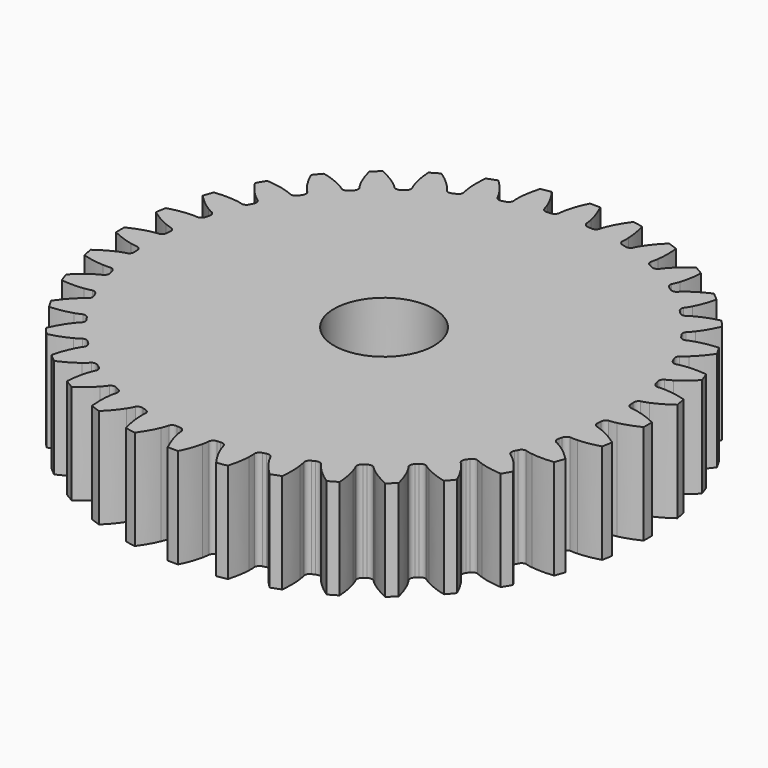
from build123d import *

# Parameters (mm, degrees)
CYLINDER_R     = 5
CYLINDER_DEPTH = 10
PAD_DEPTH      = 10


with BuildPart() as cylinder:
    # Cylinder → Cylinder (new body)
    with BuildSketch(Plane.XY):
        Circle(CYLINDER_R)
    extrude(amount=CYLINDER_DEPTH)


with BuildPart() as cut:
    # InvoluteGear → Pad (new body)
    with BuildSketch(Plane.XY):
        with BuildLine():
            add(Edge.make_bspline(
                [(23.589992, -1.374475), (23.724007, -1.3688), (23.969036, -1.347122), (24.321857, -1.271442)],
                knots=[0, 0, 0, 0, 1, 1, 1, 1], degree=3))
            add(Edge.make_bspline(
                [(24.321857, -1.271442), (24.822605, -1.163578), (25.529523, -0.948731), (26.405996, -0.522708)],
                knots=[0, 0, 0, 0, 1, 1, 1, 1], degree=3))
            ThreePointArc((26.405996, -0.522708), (26.41117, 0), (26.405996, 0.522708))
            add(Edge.make_bspline(
                [(26.405996, 0.522708), (25.529523, 0.948731), (24.822605, 1.163578), (24.321857, 1.271442)],
                knots=[0, 0, 0, 0, 1, 1, 1, 1], degree=3))
            add(Edge.make_bspline(
                [(24.321857, 1.271442), (23.969036, 1.347122), (23.724007, 1.3688), (23.590295, 1.374452)],
                knots=[0, 0, 0, 0, 1, 1, 1, 1], degree=3))
            ThreePointArc((23.590295, 1.374452), (23.318537, 1.555545), (23.207861, 1.862788))
            ThreePointArc((23.207861, 1.862788), (23.193903, 2.029204), (23.178751, 2.195515))
            ThreePointArc((23.178751, 2.195515), (23.234296, 2.517202), (23.470282, 2.742766))
            add(Edge.make_bspline(
                [(23.470282, 2.742766), (23.601275, 2.771626), (23.838817, 2.835523), (24.173137, 2.97132)],
                knots=[0, 0, 0, 0, 1, 1, 1, 1], degree=3))
            add(Edge.make_bspline(
                [(24.173137, 2.97132), (24.647547, 3.1645), (25.306418, 3.498838), (26.095597, 4.070586)],
                knots=[0, 0, 0, 0, 1, 1, 1, 1], degree=3))
            ThreePointArc((26.095597, 4.070586), (26.009925, 4.586251), (25.914063, 5.10012))
            add(Edge.make_bspline(
                [(25.914063, 5.10012), (24.976927, 5.367473), (24.243441, 5.456301), (23.73157, 5.475572)],
                knots=[0, 0, 0, 0, 1, 1, 1, 1], degree=3))
            add(Edge.make_bspline(
                [(23.73157, 5.475572), (23.370967, 5.488835), (23.125896, 5.467635), (22.993234, 5.449982)],
                knots=[0, 0, 0, 0, 1, 1, 1, 1], degree=3))
            ThreePointArc((22.993234, 5.449982), (22.694159, 5.581135), (22.531812, 5.864491))
            ThreePointArc((22.531812, 5.864491), (22.489168, 6.025954), (22.445367, 6.187108))
            ThreePointArc((22.445367, 6.187108), (22.444208, 6.513554), (22.637439, 6.776669))
            add(Edge.make_bspline(
                [(22.637439, 6.776669), (22.761431, 6.827837), (22.984269, 6.932013), (23.289929, 7.123801)],
                knots=[0, 0, 0, 0, 1, 1, 1, 1], degree=3))
            add(Edge.make_bspline(
                [(23.289929, 7.123801), (23.723586, 7.396425), (24.31439, 7.840096), (24.992297, 8.540198)],
                knots=[0, 0, 0, 0, 1, 1, 1, 1], degree=3))
            ThreePointArc((24.992297, 8.540198), (24.818381, 9.033152), (24.634743, 9.522567))
            add(Edge.make_bspline(
                [(24.634743, 9.522567), (23.66542, 9.623127), (22.927652, 9.583236), (22.420211, 9.51333)],
                knots=[0, 0, 0, 0, 1, 1, 1, 1], degree=3))
            add(Edge.make_bspline(
                [(22.420211, 9.51333), (22.062783, 9.463773), (21.825117, 9.400339), (21.697536, 9.359918)],
                knots=[0, 0, 0, 0, 1, 1, 1, 1], degree=3))
            ThreePointArc((21.697536, 9.359918), (21.38023, 9.437144), (21.171145, 9.688004))
            ThreePointArc((21.171145, 9.688004), (21.101111, 9.83961), (21.029991, 9.990709))
            ThreePointArc((21.029991, 9.990709), (20.972163, 10.311994), (21.11677, 10.604666))
            add(Edge.make_bspline(
                [(21.11677, 10.604666), (21.229992, 10.676588), (21.431355, 10.817876), (21.699067, 11.059828)],
                knots=[0, 0, 0, 0, 1, 1, 1, 1], degree=3))
            add(Edge.make_bspline(
                [(21.699067, 11.059828), (22.078795, 11.403615), (22.583581, 11.943137), (23.129618, 12.75032)],
                knots=[0, 0, 0, 0, 1, 1, 1, 1], degree=3))
            ThreePointArc((23.129618, 12.75032), (22.872744, 13.205585), (22.60691, 13.655677))
            add(Edge.make_bspline(
                [(22.60691, 13.655677), (21.63485, 13.586387), (20.915218, 13.41899), (20.427625, 13.26203)],
                knots=[0, 0, 0, 0, 1, 1, 1, 1], degree=3))
            add(Edge.make_bspline(
                [(20.427625, 13.26203), (20.084233, 13.15116), (19.861192, 13.047419), (19.742569, 12.985457)],
                knots=[0, 0, 0, 0, 1, 1, 1, 1], degree=3))
            ThreePointArc((19.742569, 12.985457), (19.416673, 13.006411), (19.167204, 13.217152))
            ThreePointArc((19.167204, 13.217152), (19.071907, 13.354293), (18.97563, 13.490748))
            ThreePointArc((18.97563, 13.490748), (18.86289, 13.79711), (18.954477, 14.110446))
            add(Edge.make_bspline(
                [(18.954477, 14.110446), (19.053491, 14.200936), (19.22726, 14.375044), (19.448891, 14.659808)],
                knots=[0, 0, 0, 0, 1, 1, 1, 1], degree=3))
            add(Edge.make_bspline(
                [(19.448891, 14.659808), (19.763152, 15.064311), (20.166582, 15.683291), (20.564157, 16.57303)],
                knots=[0, 0, 0, 0, 1, 1, 1, 1], degree=3))
            ThreePointArc((20.564157, 16.57303), (20.23213, 16.976773), (19.892177, 17.373865))
            add(Edge.make_bspline(
                [(19.892177, 17.373865), (18.946917, 17.136831), (18.267285, 16.847015), (17.814357, 16.607769)],
                knots=[0, 0, 0, 0, 1, 1, 1, 1], degree=3))
            add(Edge.make_bspline(
                [(17.814357, 16.607769), (17.495433, 16.438954), (17.293796, 16.298059), (17.187734, 16.21644)],
                knots=[0, 0, 0, 0, 1, 1, 1, 1], degree=3))
            ThreePointArc((17.187734, 16.21644), (16.863151, 16.180484), (16.580876, 16.344704))
            ThreePointArc((16.580876, 16.344704), (16.463214, 16.463214), (16.344704, 16.580876))
            ThreePointArc((16.344704, 16.580876), (16.180477, 16.863007), (16.216263, 17.187487))
            add(Edge.make_bspline(
                [(16.216263, 17.187487), (16.298059, 17.293796), (16.438954, 17.495433), (16.607769, 17.814357)],
                knots=[0, 0, 0, 0, 1, 1, 1, 1], degree=3))
            add(Edge.make_bspline(
                [(16.607769, 17.814357), (16.847015, 18.267285), (17.136831, 18.946917), (17.373865, 19.892177)],
                knots=[0, 0, 0, 0, 1, 1, 1, 1], degree=3))
            ThreePointArc((17.373865, 19.892177), (16.976773, 20.23213), (16.57303, 20.564157))
            add(Edge.make_bspline(
                [(16.57303, 20.564157), (15.683291, 20.166582), (15.064311, 19.763152), (14.659808, 19.448891)],
                knots=[0, 0, 0, 0, 1, 1, 1, 1], degree=3))
            add(Edge.make_bspline(
                [(14.659808, 19.448891), (14.375044, 19.22726), (14.200936, 19.053491), (14.110658, 18.954694)],
                knots=[0, 0, 0, 0, 1, 1, 1, 1], degree=3))
            ThreePointArc((14.110658, 18.954694), (13.79725, 18.862921), (13.490748, 18.97563))
            ThreePointArc((13.490748, 18.97563), (13.354293, 19.071907), (13.217152, 19.167204))
            ThreePointArc((13.217152, 19.167204), (13.006429, 19.41653), (12.985326, 19.742295))
            add(Edge.make_bspline(
                [(12.985326, 19.742295), (13.047419, 19.861192), (13.15116, 20.084233), (13.26203, 20.427625)],
                knots=[0, 0, 0, 0, 1, 1, 1, 1], degree=3))
            add(Edge.make_bspline(
                [(13.26203, 20.427625), (13.41899, 20.915218), (13.586387, 21.63485), (13.655677, 22.60691)],
                knots=[0, 0, 0, 0, 1, 1, 1, 1], degree=3))
            ThreePointArc((13.655677, 22.60691), (13.205585, 22.872744), (12.75032, 23.129618))
            add(Edge.make_bspline(
                [(12.75032, 23.129618), (11.943137, 22.583581), (11.403615, 22.078795), (11.059828, 21.699067)],
                knots=[0, 0, 0, 0, 1, 1, 1, 1], degree=3))
            add(Edge.make_bspline(
                [(11.059828, 21.699067), (10.817876, 21.431355), (10.676588, 21.229992), (10.604837, 21.11702)],
                knots=[0, 0, 0, 0, 1, 1, 1, 1], degree=3))
            ThreePointArc((10.604837, 21.11702), (10.312127, 20.972218), (9.990709, 21.029991))
            ThreePointArc((9.990709, 21.029991), (9.83961, 21.101111), (9.688004, 21.171145))
            ThreePointArc((9.688004, 21.171145), (9.437187, 21.380092), (9.359836, 21.697243))
            add(Edge.make_bspline(
                [(9.359836, 21.697243), (9.400339, 21.825117), (9.463773, 22.062783), (9.51333, 22.420211)],
                knots=[0, 0, 0, 0, 1, 1, 1, 1], degree=3))
            add(Edge.make_bspline(
                [(9.51333, 22.420211), (9.583236, 22.927652), (9.623127, 23.66542), (9.522567, 24.634743)],
                knots=[0, 0, 0, 0, 1, 1, 1, 1], degree=3))
            ThreePointArc((9.522567, 24.634743), (9.033152, 24.818381), (8.540198, 24.992297))
            add(Edge.make_bspline(
                [(8.540198, 24.992297), (7.840096, 24.31439), (7.396425, 23.723586), (7.123801, 23.289929)],
                knots=[0, 0, 0, 0, 1, 1, 1, 1], degree=3))
            add(Edge.make_bspline(
                [(7.123801, 23.289929), (6.932013, 22.984269), (6.827837, 22.761431), (6.776794, 22.637716)],
                knots=[0, 0, 0, 0, 1, 1, 1, 1], degree=3))
            ThreePointArc((6.776794, 22.637716), (6.513675, 22.444285), (6.187108, 22.445367))
            ThreePointArc((6.187108, 22.445367), (6.025954, 22.489168), (5.864491, 22.531812))
            ThreePointArc((5.864491, 22.531812), (5.581201, 22.694031), (5.449952, 22.992932))
            add(Edge.make_bspline(
                [(5.449952, 22.992932), (5.467635, 23.125896), (5.488835, 23.370967), (5.475572, 23.73157)],
                knots=[0, 0, 0, 0, 1, 1, 1, 1], degree=3))
            add(Edge.make_bspline(
                [(5.475572, 23.73157), (5.456301, 24.243441), (5.367473, 24.976927), (5.10012, 25.914063)],
                knots=[0, 0, 0, 0, 1, 1, 1, 1], degree=3))
            ThreePointArc((5.10012, 25.914063), (4.586251, 26.009925), (4.070586, 26.095597))
            add(Edge.make_bspline(
                [(4.070586, 26.095597), (3.498838, 25.306418), (3.1645, 24.647547), (2.97132, 24.173137)],
                knots=[0, 0, 0, 0, 1, 1, 1, 1], degree=3))
            add(Edge.make_bspline(
                [(2.97132, 24.173137), (2.835523, 23.838817), (2.771626, 23.601275), (2.742841, 23.470576)],
                knots=[0, 0, 0, 0, 1, 1, 1, 1], degree=3))
            ThreePointArc((2.742841, 23.470576), (2.517308, 23.234394), (2.195515, 23.178751))
            ThreePointArc((2.195515, 23.178751), (2.029204, 23.193903), (1.862788, 23.207861))
            ThreePointArc((1.862788, 23.207861), (1.555633, 23.318423), (1.374475, 23.589992))
            add(Edge.make_bspline(
                [(1.374475, 23.589992), (1.3688, 23.724007), (1.347122, 23.969036), (1.271442, 24.321857)],
                knots=[0, 0, 0, 0, 1, 1, 1, 1], degree=3))
            add(Edge.make_bspline(
                [(1.271442, 24.321857), (1.163578, 24.822605), (0.948731, 25.529523), (0.522708, 26.405996)],
                knots=[0, 0, 0, 0, 1, 1, 1, 1], degree=3))
            ThreePointArc((0.522708, 26.405996), (0, 26.41117), (-0.522708, 26.405996))
            add(Edge.make_bspline(
                [(-0.522708, 26.405996), (-0.948731, 25.529523), (-1.163578, 24.822605), (-1.271442, 24.321857)],
                knots=[0, 0, 0, 0, 1, 1, 1, 1], degree=3))
            add(Edge.make_bspline(
                [(-1.271442, 24.321857), (-1.347122, 23.969036), (-1.3688, 23.724007), (-1.374452, 23.590295)],
                knots=[0, 0, 0, 0, 1, 1, 1, 1], degree=3))
            ThreePointArc((-1.374452, 23.590295), (-1.555545, 23.318537), (-1.862788, 23.207861))
            ThreePointArc((-1.862788, 23.207861), (-2.029204, 23.193903), (-2.195515, 23.178751))
            ThreePointArc((-2.195515, 23.178751), (-2.517202, 23.234296), (-2.742766, 23.470282))
            add(Edge.make_bspline(
                [(-2.742766, 23.470282), (-2.771626, 23.601275), (-2.835523, 23.838817), (-2.97132, 24.173137)],
                knots=[0, 0, 0, 0, 1, 1, 1, 1], degree=3))
            add(Edge.make_bspline(
                [(-2.97132, 24.173137), (-3.1645, 24.647547), (-3.498838, 25.306418), (-4.070586, 26.095597)],
                knots=[0, 0, 0, 0, 1, 1, 1, 1], degree=3))
            ThreePointArc((-4.070586, 26.095597), (-4.586251, 26.009925), (-5.10012, 25.914063))
            add(Edge.make_bspline(
                [(-5.10012, 25.914063), (-5.367473, 24.976927), (-5.456301, 24.243441), (-5.475572, 23.73157)],
                knots=[0, 0, 0, 0, 1, 1, 1, 1], degree=3))
            add(Edge.make_bspline(
                [(-5.475572, 23.73157), (-5.488835, 23.370967), (-5.467635, 23.125896), (-5.449982, 22.993234)],
                knots=[0, 0, 0, 0, 1, 1, 1, 1], degree=3))
            ThreePointArc((-5.449982, 22.993234), (-5.581135, 22.694159), (-5.864491, 22.531812))
            ThreePointArc((-5.864491, 22.531812), (-6.025954, 22.489168), (-6.187108, 22.445367))
            ThreePointArc((-6.187108, 22.445367), (-6.513554, 22.444208), (-6.776669, 22.637439))
            add(Edge.make_bspline(
                [(-6.776669, 22.637439), (-6.827837, 22.761431), (-6.932013, 22.984269), (-7.123801, 23.289929)],
                knots=[0, 0, 0, 0, 1, 1, 1, 1], degree=3))
            add(Edge.make_bspline(
                [(-7.123801, 23.289929), (-7.396425, 23.723586), (-7.840096, 24.31439), (-8.540198, 24.992297)],
                knots=[0, 0, 0, 0, 1, 1, 1, 1], degree=3))
            ThreePointArc((-8.540198, 24.992297), (-9.033152, 24.818381), (-9.522567, 24.634743))
            add(Edge.make_bspline(
                [(-9.522567, 24.634743), (-9.623127, 23.66542), (-9.583236, 22.927652), (-9.51333, 22.420211)],
                knots=[0, 0, 0, 0, 1, 1, 1, 1], degree=3))
            add(Edge.make_bspline(
                [(-9.51333, 22.420211), (-9.463773, 22.062783), (-9.400339, 21.825117), (-9.359918, 21.697536)],
                knots=[0, 0, 0, 0, 1, 1, 1, 1], degree=3))
            ThreePointArc((-9.359918, 21.697536), (-9.437144, 21.38023), (-9.688004, 21.171145))
            ThreePointArc((-9.688004, 21.171145), (-9.83961, 21.101111), (-9.990709, 21.029991))
            ThreePointArc((-9.990709, 21.029991), (-10.311994, 20.972163), (-10.604666, 21.11677))
            add(Edge.make_bspline(
                [(-10.604666, 21.11677), (-10.676588, 21.229992), (-10.817876, 21.431355), (-11.059828, 21.699067)],
                knots=[0, 0, 0, 0, 1, 1, 1, 1], degree=3))
            add(Edge.make_bspline(
                [(-11.059828, 21.699067), (-11.403615, 22.078795), (-11.943137, 22.583581), (-12.75032, 23.129618)],
                knots=[0, 0, 0, 0, 1, 1, 1, 1], degree=3))
            ThreePointArc((-12.75032, 23.129618), (-13.205585, 22.872744), (-13.655677, 22.60691))
            add(Edge.make_bspline(
                [(-13.655677, 22.60691), (-13.586387, 21.63485), (-13.41899, 20.915218), (-13.26203, 20.427625)],
                knots=[0, 0, 0, 0, 1, 1, 1, 1], degree=3))
            add(Edge.make_bspline(
                [(-13.26203, 20.427625), (-13.15116, 20.084233), (-13.047419, 19.861192), (-12.985457, 19.742569)],
                knots=[0, 0, 0, 0, 1, 1, 1, 1], degree=3))
            ThreePointArc((-12.985457, 19.742569), (-13.006411, 19.416673), (-13.217152, 19.167204))
            ThreePointArc((-13.217152, 19.167204), (-13.354293, 19.071907), (-13.490748, 18.97563))
            ThreePointArc((-13.490748, 18.97563), (-13.79711, 18.86289), (-14.110446, 18.954477))
            add(Edge.make_bspline(
                [(-14.110446, 18.954477), (-14.200936, 19.053491), (-14.375044, 19.22726), (-14.659808, 19.448891)],
                knots=[0, 0, 0, 0, 1, 1, 1, 1], degree=3))
            add(Edge.make_bspline(
                [(-14.659808, 19.448891), (-15.064311, 19.763152), (-15.683291, 20.166582), (-16.57303, 20.564157)],
                knots=[0, 0, 0, 0, 1, 1, 1, 1], degree=3))
            ThreePointArc((-16.57303, 20.564157), (-16.976773, 20.23213), (-17.373865, 19.892177))
            add(Edge.make_bspline(
                [(-17.373865, 19.892177), (-17.136831, 18.946917), (-16.847015, 18.267285), (-16.607769, 17.814357)],
                knots=[0, 0, 0, 0, 1, 1, 1, 1], degree=3))
            add(Edge.make_bspline(
                [(-16.607769, 17.814357), (-16.438954, 17.495433), (-16.298059, 17.293796), (-16.21644, 17.187734)],
                knots=[0, 0, 0, 0, 1, 1, 1, 1], degree=3))
            ThreePointArc((-16.21644, 17.187734), (-16.180484, 16.863151), (-16.344704, 16.580876))
            ThreePointArc((-16.344704, 16.580876), (-16.463214, 16.463214), (-16.580876, 16.344704))
            ThreePointArc((-16.580876, 16.344704), (-16.863007, 16.180477), (-17.187487, 16.216263))
            add(Edge.make_bspline(
                [(-17.187487, 16.216263), (-17.293796, 16.298059), (-17.495433, 16.438954), (-17.814357, 16.607769)],
                knots=[0, 0, 0, 0, 1, 1, 1, 1], degree=3))
            add(Edge.make_bspline(
                [(-17.814357, 16.607769), (-18.267285, 16.847015), (-18.946917, 17.136831), (-19.892177, 17.373865)],
                knots=[0, 0, 0, 0, 1, 1, 1, 1], degree=3))
            ThreePointArc((-19.892177, 17.373865), (-20.23213, 16.976773), (-20.564157, 16.57303))
            add(Edge.make_bspline(
                [(-20.564157, 16.57303), (-20.166582, 15.683291), (-19.763152, 15.064311), (-19.448891, 14.659808)],
                knots=[0, 0, 0, 0, 1, 1, 1, 1], degree=3))
            add(Edge.make_bspline(
                [(-19.448891, 14.659808), (-19.22726, 14.375044), (-19.053491, 14.200936), (-18.954694, 14.110658)],
                knots=[0, 0, 0, 0, 1, 1, 1, 1], degree=3))
            ThreePointArc((-18.954694, 14.110658), (-18.862921, 13.79725), (-18.97563, 13.490748))
            ThreePointArc((-18.97563, 13.490748), (-19.071907, 13.354293), (-19.167204, 13.217152))
            ThreePointArc((-19.167204, 13.217152), (-19.41653, 13.006429), (-19.742295, 12.985326))
            add(Edge.make_bspline(
                [(-19.742295, 12.985326), (-19.861192, 13.047419), (-20.084233, 13.15116), (-20.427625, 13.26203)],
                knots=[0, 0, 0, 0, 1, 1, 1, 1], degree=3))
            add(Edge.make_bspline(
                [(-20.427625, 13.26203), (-20.915218, 13.41899), (-21.63485, 13.586387), (-22.60691, 13.655677)],
                knots=[0, 0, 0, 0, 1, 1, 1, 1], degree=3))
            ThreePointArc((-22.60691, 13.655677), (-22.872744, 13.205585), (-23.129618, 12.75032))
            add(Edge.make_bspline(
                [(-23.129618, 12.75032), (-22.583581, 11.943137), (-22.078795, 11.403615), (-21.699067, 11.059828)],
                knots=[0, 0, 0, 0, 1, 1, 1, 1], degree=3))
            add(Edge.make_bspline(
                [(-21.699067, 11.059828), (-21.431355, 10.817876), (-21.229992, 10.676588), (-21.11702, 10.604837)],
                knots=[0, 0, 0, 0, 1, 1, 1, 1], degree=3))
            ThreePointArc((-21.11702, 10.604837), (-20.972218, 10.312127), (-21.029991, 9.990709))
            ThreePointArc((-21.029991, 9.990709), (-21.101111, 9.83961), (-21.171145, 9.688004))
            ThreePointArc((-21.171145, 9.688004), (-21.380092, 9.437187), (-21.697243, 9.359836))
            add(Edge.make_bspline(
                [(-21.697243, 9.359836), (-21.825117, 9.400339), (-22.062783, 9.463773), (-22.420211, 9.51333)],
                knots=[0, 0, 0, 0, 1, 1, 1, 1], degree=3))
            add(Edge.make_bspline(
                [(-22.420211, 9.51333), (-22.927652, 9.583236), (-23.66542, 9.623127), (-24.634743, 9.522567)],
                knots=[0, 0, 0, 0, 1, 1, 1, 1], degree=3))
            ThreePointArc((-24.634743, 9.522567), (-24.818381, 9.033152), (-24.992297, 8.540198))
            add(Edge.make_bspline(
                [(-24.992297, 8.540198), (-24.31439, 7.840096), (-23.723586, 7.396425), (-23.289929, 7.123801)],
                knots=[0, 0, 0, 0, 1, 1, 1, 1], degree=3))
            add(Edge.make_bspline(
                [(-23.289929, 7.123801), (-22.984269, 6.932013), (-22.761431, 6.827837), (-22.637716, 6.776794)],
                knots=[0, 0, 0, 0, 1, 1, 1, 1], degree=3))
            ThreePointArc((-22.637716, 6.776794), (-22.444285, 6.513675), (-22.445367, 6.187108))
            ThreePointArc((-22.445367, 6.187108), (-22.489168, 6.025954), (-22.531812, 5.864491))
            ThreePointArc((-22.531812, 5.864491), (-22.694031, 5.581201), (-22.992932, 5.449952))
            add(Edge.make_bspline(
                [(-22.992932, 5.449952), (-23.125896, 5.467635), (-23.370967, 5.488835), (-23.73157, 5.475572)],
                knots=[0, 0, 0, 0, 1, 1, 1, 1], degree=3))
            add(Edge.make_bspline(
                [(-23.73157, 5.475572), (-24.243441, 5.456301), (-24.976927, 5.367473), (-25.914063, 5.10012)],
                knots=[0, 0, 0, 0, 1, 1, 1, 1], degree=3))
            ThreePointArc((-25.914063, 5.10012), (-26.009925, 4.586251), (-26.095597, 4.070586))
            add(Edge.make_bspline(
                [(-26.095597, 4.070586), (-25.306418, 3.498838), (-24.647547, 3.1645), (-24.173137, 2.97132)],
                knots=[0, 0, 0, 0, 1, 1, 1, 1], degree=3))
            add(Edge.make_bspline(
                [(-24.173137, 2.97132), (-23.838817, 2.835523), (-23.601275, 2.771626), (-23.470576, 2.742841)],
                knots=[0, 0, 0, 0, 1, 1, 1, 1], degree=3))
            ThreePointArc((-23.470576, 2.742841), (-23.234394, 2.517308), (-23.178751, 2.195515))
            ThreePointArc((-23.178751, 2.195515), (-23.193903, 2.029204), (-23.207861, 1.862788))
            ThreePointArc((-23.207861, 1.862788), (-23.318423, 1.555633), (-23.589992, 1.374475))
            add(Edge.make_bspline(
                [(-23.589992, 1.374475), (-23.724007, 1.3688), (-23.969036, 1.347122), (-24.321857, 1.271442)],
                knots=[0, 0, 0, 0, 1, 1, 1, 1], degree=3))
            add(Edge.make_bspline(
                [(-24.321857, 1.271442), (-24.822605, 1.163578), (-25.529523, 0.948731), (-26.405996, 0.522708)],
                knots=[0, 0, 0, 0, 1, 1, 1, 1], degree=3))
            ThreePointArc((-26.405996, 0.522708), (-26.41117, 0), (-26.405996, -0.522708))
            add(Edge.make_bspline(
                [(-26.405996, -0.522708), (-25.529523, -0.948731), (-24.822605, -1.163578), (-24.321857, -1.271442)],
                knots=[0, 0, 0, 0, 1, 1, 1, 1], degree=3))
            add(Edge.make_bspline(
                [(-24.321857, -1.271442), (-23.969036, -1.347122), (-23.724007, -1.3688), (-23.590295, -1.374452)],
                knots=[0, 0, 0, 0, 1, 1, 1, 1], degree=3))
            ThreePointArc((-23.590295, -1.374452), (-23.318537, -1.555545), (-23.207861, -1.862788))
            ThreePointArc((-23.207861, -1.862788), (-23.193903, -2.029204), (-23.178751, -2.195515))
            ThreePointArc((-23.178751, -2.195515), (-23.234296, -2.517202), (-23.470282, -2.742766))
            add(Edge.make_bspline(
                [(-23.470282, -2.742766), (-23.601275, -2.771626), (-23.838817, -2.835523), (-24.173137, -2.97132)],
                knots=[0, 0, 0, 0, 1, 1, 1, 1], degree=3))
            add(Edge.make_bspline(
                [(-24.173137, -2.97132), (-24.647547, -3.1645), (-25.306418, -3.498838), (-26.095597, -4.070586)],
                knots=[0, 0, 0, 0, 1, 1, 1, 1], degree=3))
            ThreePointArc((-26.095597, -4.070586), (-26.009925, -4.586251), (-25.914063, -5.10012))
            add(Edge.make_bspline(
                [(-25.914063, -5.10012), (-24.976927, -5.367473), (-24.243441, -5.456301), (-23.73157, -5.475572)],
                knots=[0, 0, 0, 0, 1, 1, 1, 1], degree=3))
            add(Edge.make_bspline(
                [(-23.73157, -5.475572), (-23.370967, -5.488835), (-23.125896, -5.467635), (-22.993234, -5.449982)],
                knots=[0, 0, 0, 0, 1, 1, 1, 1], degree=3))
            ThreePointArc((-22.993234, -5.449982), (-22.694159, -5.581135), (-22.531812, -5.864491))
            ThreePointArc((-22.531812, -5.864491), (-22.489168, -6.025954), (-22.445367, -6.187108))
            ThreePointArc((-22.445367, -6.187108), (-22.444208, -6.513554), (-22.637439, -6.776669))
            add(Edge.make_bspline(
                [(-22.637439, -6.776669), (-22.761431, -6.827837), (-22.984269, -6.932013), (-23.289929, -7.123801)],
                knots=[0, 0, 0, 0, 1, 1, 1, 1], degree=3))
            add(Edge.make_bspline(
                [(-23.289929, -7.123801), (-23.723586, -7.396425), (-24.31439, -7.840096), (-24.992297, -8.540198)],
                knots=[0, 0, 0, 0, 1, 1, 1, 1], degree=3))
            ThreePointArc((-24.992297, -8.540198), (-24.818381, -9.033152), (-24.634743, -9.522567))
            add(Edge.make_bspline(
                [(-24.634743, -9.522567), (-23.66542, -9.623127), (-22.927652, -9.583236), (-22.420211, -9.51333)],
                knots=[0, 0, 0, 0, 1, 1, 1, 1], degree=3))
            add(Edge.make_bspline(
                [(-22.420211, -9.51333), (-22.062783, -9.463773), (-21.825117, -9.400339), (-21.697536, -9.359918)],
                knots=[0, 0, 0, 0, 1, 1, 1, 1], degree=3))
            ThreePointArc((-21.697536, -9.359918), (-21.38023, -9.437144), (-21.171145, -9.688004))
            ThreePointArc((-21.171145, -9.688004), (-21.101111, -9.83961), (-21.029991, -9.990709))
            ThreePointArc((-21.029991, -9.990709), (-20.972163, -10.311994), (-21.11677, -10.604666))
            add(Edge.make_bspline(
                [(-21.11677, -10.604666), (-21.229992, -10.676588), (-21.431355, -10.817876), (-21.699067, -11.059828)],
                knots=[0, 0, 0, 0, 1, 1, 1, 1], degree=3))
            add(Edge.make_bspline(
                [(-21.699067, -11.059828), (-22.078795, -11.403615), (-22.583581, -11.943137), (-23.129618, -12.75032)],
                knots=[0, 0, 0, 0, 1, 1, 1, 1], degree=3))
            ThreePointArc((-23.129618, -12.75032), (-22.872744, -13.205585), (-22.60691, -13.655677))
            add(Edge.make_bspline(
                [(-22.60691, -13.655677), (-21.63485, -13.586387), (-20.915218, -13.41899), (-20.427625, -13.26203)],
                knots=[0, 0, 0, 0, 1, 1, 1, 1], degree=3))
            add(Edge.make_bspline(
                [(-20.427625, -13.26203), (-20.084233, -13.15116), (-19.861192, -13.047419), (-19.742569, -12.985457)],
                knots=[0, 0, 0, 0, 1, 1, 1, 1], degree=3))
            ThreePointArc((-19.742569, -12.985457), (-19.416673, -13.006411), (-19.167204, -13.217152))
            ThreePointArc((-19.167204, -13.217152), (-19.071907, -13.354293), (-18.97563, -13.490748))
            ThreePointArc((-18.97563, -13.490748), (-18.86289, -13.79711), (-18.954477, -14.110446))
            add(Edge.make_bspline(
                [(-18.954477, -14.110446), (-19.053491, -14.200936), (-19.22726, -14.375044), (-19.448891, -14.659808)],
                knots=[0, 0, 0, 0, 1, 1, 1, 1], degree=3))
            add(Edge.make_bspline(
                [(-19.448891, -14.659808), (-19.763152, -15.064311), (-20.166582, -15.683291), (-20.564157, -16.57303)],
                knots=[0, 0, 0, 0, 1, 1, 1, 1], degree=3))
            ThreePointArc((-20.564157, -16.57303), (-20.23213, -16.976773), (-19.892177, -17.373865))
            add(Edge.make_bspline(
                [(-19.892177, -17.373865), (-18.946917, -17.136831), (-18.267285, -16.847015), (-17.814357, -16.607769)],
                knots=[0, 0, 0, 0, 1, 1, 1, 1], degree=3))
            add(Edge.make_bspline(
                [(-17.814357, -16.607769), (-17.495433, -16.438954), (-17.293796, -16.298059), (-17.187734, -16.21644)],
                knots=[0, 0, 0, 0, 1, 1, 1, 1], degree=3))
            ThreePointArc((-17.187734, -16.21644), (-16.863151, -16.180484), (-16.580876, -16.344704))
            ThreePointArc((-16.580876, -16.344704), (-16.463214, -16.463214), (-16.344704, -16.580876))
            ThreePointArc((-16.344704, -16.580876), (-16.180477, -16.863007), (-16.216263, -17.187487))
            add(Edge.make_bspline(
                [(-16.216263, -17.187487), (-16.298059, -17.293796), (-16.438954, -17.495433), (-16.607769, -17.814357)],
                knots=[0, 0, 0, 0, 1, 1, 1, 1], degree=3))
            add(Edge.make_bspline(
                [(-16.607769, -17.814357), (-16.847015, -18.267285), (-17.136831, -18.946917), (-17.373865, -19.892177)],
                knots=[0, 0, 0, 0, 1, 1, 1, 1], degree=3))
            ThreePointArc((-17.373865, -19.892177), (-16.976773, -20.23213), (-16.57303, -20.564157))
            add(Edge.make_bspline(
                [(-16.57303, -20.564157), (-15.683291, -20.166582), (-15.064311, -19.763152), (-14.659808, -19.448891)],
                knots=[0, 0, 0, 0, 1, 1, 1, 1], degree=3))
            add(Edge.make_bspline(
                [(-14.659808, -19.448891), (-14.375044, -19.22726), (-14.200936, -19.053491), (-14.110658, -18.954694)],
                knots=[0, 0, 0, 0, 1, 1, 1, 1], degree=3))
            ThreePointArc((-14.110658, -18.954694), (-13.79725, -18.862921), (-13.490748, -18.97563))
            ThreePointArc((-13.490748, -18.97563), (-13.354293, -19.071907), (-13.217152, -19.167204))
            ThreePointArc((-13.217152, -19.167204), (-13.006429, -19.41653), (-12.985326, -19.742295))
            add(Edge.make_bspline(
                [(-12.985326, -19.742295), (-13.047419, -19.861192), (-13.15116, -20.084233), (-13.26203, -20.427625)],
                knots=[0, 0, 0, 0, 1, 1, 1, 1], degree=3))
            add(Edge.make_bspline(
                [(-13.26203, -20.427625), (-13.41899, -20.915218), (-13.586387, -21.63485), (-13.655677, -22.60691)],
                knots=[0, 0, 0, 0, 1, 1, 1, 1], degree=3))
            ThreePointArc((-13.655677, -22.60691), (-13.205585, -22.872744), (-12.75032, -23.129618))
            add(Edge.make_bspline(
                [(-12.75032, -23.129618), (-11.943137, -22.583581), (-11.403615, -22.078795), (-11.059828, -21.699067)],
                knots=[0, 0, 0, 0, 1, 1, 1, 1], degree=3))
            add(Edge.make_bspline(
                [(-11.059828, -21.699067), (-10.817876, -21.431355), (-10.676588, -21.229992), (-10.604837, -21.11702)],
                knots=[0, 0, 0, 0, 1, 1, 1, 1], degree=3))
            ThreePointArc((-10.604837, -21.11702), (-10.312127, -20.972218), (-9.990709, -21.029991))
            ThreePointArc((-9.990709, -21.029991), (-9.83961, -21.101111), (-9.688004, -21.171145))
            ThreePointArc((-9.688004, -21.171145), (-9.437187, -21.380092), (-9.359836, -21.697243))
            add(Edge.make_bspline(
                [(-9.359836, -21.697243), (-9.400339, -21.825117), (-9.463773, -22.062783), (-9.51333, -22.420211)],
                knots=[0, 0, 0, 0, 1, 1, 1, 1], degree=3))
            add(Edge.make_bspline(
                [(-9.51333, -22.420211), (-9.583236, -22.927652), (-9.623127, -23.66542), (-9.522567, -24.634743)],
                knots=[0, 0, 0, 0, 1, 1, 1, 1], degree=3))
            ThreePointArc((-9.522567, -24.634743), (-9.033152, -24.818381), (-8.540198, -24.992297))
            add(Edge.make_bspline(
                [(-8.540198, -24.992297), (-7.840096, -24.31439), (-7.396425, -23.723586), (-7.123801, -23.289929)],
                knots=[0, 0, 0, 0, 1, 1, 1, 1], degree=3))
            add(Edge.make_bspline(
                [(-7.123801, -23.289929), (-6.932013, -22.984269), (-6.827837, -22.761431), (-6.776794, -22.637716)],
                knots=[0, 0, 0, 0, 1, 1, 1, 1], degree=3))
            ThreePointArc((-6.776794, -22.637716), (-6.513675, -22.444285), (-6.187108, -22.445367))
            ThreePointArc((-6.187108, -22.445367), (-6.025954, -22.489168), (-5.864491, -22.531812))
            ThreePointArc((-5.864491, -22.531812), (-5.581201, -22.694031), (-5.449952, -22.992932))
            add(Edge.make_bspline(
                [(-5.449952, -22.992932), (-5.467635, -23.125896), (-5.488835, -23.370967), (-5.475572, -23.73157)],
                knots=[0, 0, 0, 0, 1, 1, 1, 1], degree=3))
            add(Edge.make_bspline(
                [(-5.475572, -23.73157), (-5.456301, -24.243441), (-5.367473, -24.976927), (-5.10012, -25.914063)],
                knots=[0, 0, 0, 0, 1, 1, 1, 1], degree=3))
            ThreePointArc((-5.10012, -25.914063), (-4.586251, -26.009925), (-4.070586, -26.095597))
            add(Edge.make_bspline(
                [(-4.070586, -26.095597), (-3.498838, -25.306418), (-3.1645, -24.647547), (-2.97132, -24.173137)],
                knots=[0, 0, 0, 0, 1, 1, 1, 1], degree=3))
            add(Edge.make_bspline(
                [(-2.97132, -24.173137), (-2.835523, -23.838817), (-2.771626, -23.601275), (-2.742841, -23.470576)],
                knots=[0, 0, 0, 0, 1, 1, 1, 1], degree=3))
            ThreePointArc((-2.742841, -23.470576), (-2.517308, -23.234394), (-2.195515, -23.178751))
            ThreePointArc((-2.195515, -23.178751), (-2.029204, -23.193903), (-1.862788, -23.207861))
            ThreePointArc((-1.862788, -23.207861), (-1.555633, -23.318423), (-1.374475, -23.589992))
            add(Edge.make_bspline(
                [(-1.374475, -23.589992), (-1.3688, -23.724007), (-1.347122, -23.969036), (-1.271442, -24.321857)],
                knots=[0, 0, 0, 0, 1, 1, 1, 1], degree=3))
            add(Edge.make_bspline(
                [(-1.271442, -24.321857), (-1.163578, -24.822605), (-0.948731, -25.529523), (-0.522708, -26.405996)],
                knots=[0, 0, 0, 0, 1, 1, 1, 1], degree=3))
            ThreePointArc((-0.522708, -26.405996), (0, -26.41117), (0.522708, -26.405996))
            add(Edge.make_bspline(
                [(0.522708, -26.405996), (0.948731, -25.529523), (1.163578, -24.822605), (1.271442, -24.321857)],
                knots=[0, 0, 0, 0, 1, 1, 1, 1], degree=3))
            add(Edge.make_bspline(
                [(1.271442, -24.321857), (1.347122, -23.969036), (1.3688, -23.724007), (1.374452, -23.590295)],
                knots=[0, 0, 0, 0, 1, 1, 1, 1], degree=3))
            ThreePointArc((1.374452, -23.590295), (1.555545, -23.318537), (1.862788, -23.207861))
            ThreePointArc((1.862788, -23.207861), (2.029204, -23.193903), (2.195515, -23.178751))
            ThreePointArc((2.195515, -23.178751), (2.517202, -23.234296), (2.742766, -23.470282))
            add(Edge.make_bspline(
                [(2.742766, -23.470282), (2.771626, -23.601275), (2.835523, -23.838817), (2.97132, -24.173137)],
                knots=[0, 0, 0, 0, 1, 1, 1, 1], degree=3))
            add(Edge.make_bspline(
                [(2.97132, -24.173137), (3.1645, -24.647547), (3.498838, -25.306418), (4.070586, -26.095597)],
                knots=[0, 0, 0, 0, 1, 1, 1, 1], degree=3))
            ThreePointArc((4.070586, -26.095597), (4.586251, -26.009925), (5.10012, -25.914063))
            add(Edge.make_bspline(
                [(5.10012, -25.914063), (5.367473, -24.976927), (5.456301, -24.243441), (5.475572, -23.73157)],
                knots=[0, 0, 0, 0, 1, 1, 1, 1], degree=3))
            add(Edge.make_bspline(
                [(5.475572, -23.73157), (5.488835, -23.370967), (5.467635, -23.125896), (5.449982, -22.993234)],
                knots=[0, 0, 0, 0, 1, 1, 1, 1], degree=3))
            ThreePointArc((5.449982, -22.993234), (5.581135, -22.694159), (5.864491, -22.531812))
            ThreePointArc((5.864491, -22.531812), (6.025954, -22.489168), (6.187108, -22.445367))
            ThreePointArc((6.187108, -22.445367), (6.513554, -22.444208), (6.776669, -22.637439))
            add(Edge.make_bspline(
                [(6.776669, -22.637439), (6.827837, -22.761431), (6.932013, -22.984269), (7.123801, -23.289929)],
                knots=[0, 0, 0, 0, 1, 1, 1, 1], degree=3))
            add(Edge.make_bspline(
                [(7.123801, -23.289929), (7.396425, -23.723586), (7.840096, -24.31439), (8.540198, -24.992297)],
                knots=[0, 0, 0, 0, 1, 1, 1, 1], degree=3))
            ThreePointArc((8.540198, -24.992297), (9.033152, -24.818381), (9.522567, -24.634743))
            add(Edge.make_bspline(
                [(9.522567, -24.634743), (9.623127, -23.66542), (9.583236, -22.927652), (9.51333, -22.420211)],
                knots=[0, 0, 0, 0, 1, 1, 1, 1], degree=3))
            add(Edge.make_bspline(
                [(9.51333, -22.420211), (9.463773, -22.062783), (9.400339, -21.825117), (9.359918, -21.697536)],
                knots=[0, 0, 0, 0, 1, 1, 1, 1], degree=3))
            ThreePointArc((9.359918, -21.697536), (9.437144, -21.38023), (9.688004, -21.171145))
            ThreePointArc((9.688004, -21.171145), (9.83961, -21.101111), (9.990709, -21.029991))
            ThreePointArc((9.990709, -21.029991), (10.311994, -20.972163), (10.604666, -21.11677))
            add(Edge.make_bspline(
                [(10.604666, -21.11677), (10.676588, -21.229992), (10.817876, -21.431355), (11.059828, -21.699067)],
                knots=[0, 0, 0, 0, 1, 1, 1, 1], degree=3))
            add(Edge.make_bspline(
                [(11.059828, -21.699067), (11.403615, -22.078795), (11.943137, -22.583581), (12.75032, -23.129618)],
                knots=[0, 0, 0, 0, 1, 1, 1, 1], degree=3))
            ThreePointArc((12.75032, -23.129618), (13.205585, -22.872744), (13.655677, -22.60691))
            add(Edge.make_bspline(
                [(13.655677, -22.60691), (13.586387, -21.63485), (13.41899, -20.915218), (13.26203, -20.427625)],
                knots=[0, 0, 0, 0, 1, 1, 1, 1], degree=3))
            add(Edge.make_bspline(
                [(13.26203, -20.427625), (13.15116, -20.084233), (13.047419, -19.861192), (12.985457, -19.742569)],
                knots=[0, 0, 0, 0, 1, 1, 1, 1], degree=3))
            ThreePointArc((12.985457, -19.742569), (13.006411, -19.416673), (13.217152, -19.167204))
            ThreePointArc((13.217152, -19.167204), (13.354293, -19.071907), (13.490748, -18.97563))
            ThreePointArc((13.490748, -18.97563), (13.79711, -18.86289), (14.110446, -18.954477))
            add(Edge.make_bspline(
                [(14.110446, -18.954477), (14.200936, -19.053491), (14.375044, -19.22726), (14.659808, -19.448891)],
                knots=[0, 0, 0, 0, 1, 1, 1, 1], degree=3))
            add(Edge.make_bspline(
                [(14.659808, -19.448891), (15.064311, -19.763152), (15.683291, -20.166582), (16.57303, -20.564157)],
                knots=[0, 0, 0, 0, 1, 1, 1, 1], degree=3))
            ThreePointArc((16.57303, -20.564157), (16.976773, -20.23213), (17.373865, -19.892177))
            add(Edge.make_bspline(
                [(17.373865, -19.892177), (17.136831, -18.946917), (16.847015, -18.267285), (16.607769, -17.814357)],
                knots=[0, 0, 0, 0, 1, 1, 1, 1], degree=3))
            add(Edge.make_bspline(
                [(16.607769, -17.814357), (16.438954, -17.495433), (16.298059, -17.293796), (16.21644, -17.187734)],
                knots=[0, 0, 0, 0, 1, 1, 1, 1], degree=3))
            ThreePointArc((16.21644, -17.187734), (16.180484, -16.863151), (16.344704, -16.580876))
            ThreePointArc((16.344704, -16.580876), (16.463214, -16.463214), (16.580876, -16.344704))
            ThreePointArc((16.580876, -16.344704), (16.863007, -16.180477), (17.187487, -16.216263))
            add(Edge.make_bspline(
                [(17.187487, -16.216263), (17.293796, -16.298059), (17.495433, -16.438954), (17.814357, -16.607769)],
                knots=[0, 0, 0, 0, 1, 1, 1, 1], degree=3))
            add(Edge.make_bspline(
                [(17.814357, -16.607769), (18.267285, -16.847015), (18.946917, -17.136831), (19.892177, -17.373865)],
                knots=[0, 0, 0, 0, 1, 1, 1, 1], degree=3))
            ThreePointArc((19.892177, -17.373865), (20.23213, -16.976773), (20.564157, -16.57303))
            add(Edge.make_bspline(
                [(20.564157, -16.57303), (20.166582, -15.683291), (19.763152, -15.064311), (19.448891, -14.659808)],
                knots=[0, 0, 0, 0, 1, 1, 1, 1], degree=3))
            add(Edge.make_bspline(
                [(19.448891, -14.659808), (19.22726, -14.375044), (19.053491, -14.200936), (18.954694, -14.110658)],
                knots=[0, 0, 0, 0, 1, 1, 1, 1], degree=3))
            ThreePointArc((18.954694, -14.110658), (18.862921, -13.79725), (18.97563, -13.490748))
            ThreePointArc((18.97563, -13.490748), (19.071907, -13.354293), (19.167204, -13.217152))
            ThreePointArc((19.167204, -13.217152), (19.41653, -13.006429), (19.742295, -12.985326))
            add(Edge.make_bspline(
                [(19.742295, -12.985326), (19.861192, -13.047419), (20.084233, -13.15116), (20.427625, -13.26203)],
                knots=[0, 0, 0, 0, 1, 1, 1, 1], degree=3))
            add(Edge.make_bspline(
                [(20.427625, -13.26203), (20.915218, -13.41899), (21.63485, -13.586387), (22.60691, -13.655677)],
                knots=[0, 0, 0, 0, 1, 1, 1, 1], degree=3))
            ThreePointArc((22.60691, -13.655677), (22.872744, -13.205585), (23.129618, -12.75032))
            add(Edge.make_bspline(
                [(23.129618, -12.75032), (22.583581, -11.943137), (22.078795, -11.403615), (21.699067, -11.059828)],
                knots=[0, 0, 0, 0, 1, 1, 1, 1], degree=3))
            add(Edge.make_bspline(
                [(21.699067, -11.059828), (21.431355, -10.817876), (21.229992, -10.676588), (21.11702, -10.604837)],
                knots=[0, 0, 0, 0, 1, 1, 1, 1], degree=3))
            ThreePointArc((21.11702, -10.604837), (20.972218, -10.312127), (21.029991, -9.990709))
            ThreePointArc((21.029991, -9.990709), (21.101111, -9.83961), (21.171145, -9.688004))
            ThreePointArc((21.171145, -9.688004), (21.380092, -9.437187), (21.697243, -9.359836))
            add(Edge.make_bspline(
                [(21.697243, -9.359836), (21.825117, -9.400339), (22.062783, -9.463773), (22.420211, -9.51333)],
                knots=[0, 0, 0, 0, 1, 1, 1, 1], degree=3))
            add(Edge.make_bspline(
                [(22.420211, -9.51333), (22.927652, -9.583236), (23.66542, -9.623127), (24.634743, -9.522567)],
                knots=[0, 0, 0, 0, 1, 1, 1, 1], degree=3))
            ThreePointArc((24.634743, -9.522567), (24.818381, -9.033152), (24.992297, -8.540198))
            add(Edge.make_bspline(
                [(24.992297, -8.540198), (24.31439, -7.840096), (23.723586, -7.396425), (23.289929, -7.123801)],
                knots=[0, 0, 0, 0, 1, 1, 1, 1], degree=3))
            add(Edge.make_bspline(
                [(23.289929, -7.123801), (22.984269, -6.932013), (22.761431, -6.827837), (22.637716, -6.776794)],
                knots=[0, 0, 0, 0, 1, 1, 1, 1], degree=3))
            ThreePointArc((22.637716, -6.776794), (22.444285, -6.513675), (22.445367, -6.187108))
            ThreePointArc((22.445367, -6.187108), (22.489168, -6.025954), (22.531812, -5.864491))
            ThreePointArc((22.531812, -5.864491), (22.694031, -5.581201), (22.992932, -5.449952))
            add(Edge.make_bspline(
                [(22.992932, -5.449952), (23.125896, -5.467635), (23.370967, -5.488835), (23.73157, -5.475572)],
                knots=[0, 0, 0, 0, 1, 1, 1, 1], degree=3))
            add(Edge.make_bspline(
                [(23.73157, -5.475572), (24.243441, -5.456301), (24.976927, -5.367473), (25.914063, -5.10012)],
                knots=[0, 0, 0, 0, 1, 1, 1, 1], degree=3))
            ThreePointArc((25.914063, -5.10012), (26.009925, -4.586251), (26.095597, -4.070586))
            add(Edge.make_bspline(
                [(26.095597, -4.070586), (25.306418, -3.498838), (24.647547, -3.1645), (24.173137, -2.97132)],
                knots=[0, 0, 0, 0, 1, 1, 1, 1], degree=3))
            add(Edge.make_bspline(
                [(24.173137, -2.97132), (23.838817, -2.835523), (23.601275, -2.771626), (23.470576, -2.742841)],
                knots=[0, 0, 0, 0, 1, 1, 1, 1], degree=3))
            ThreePointArc((23.470576, -2.742841), (23.234394, -2.517308), (23.178751, -2.195515))
            ThreePointArc((23.178751, -2.195515), (23.193903, -2.029204), (23.207861, -1.862788))
            ThreePointArc((23.207861, -1.862788), (23.318423, -1.555633), (23.589992, -1.374475))
        make_face()
    extrude(amount=PAD_DEPTH)

    # Cut: cut Cylinder
    add(cylinder.part, mode=Mode.SUBTRACT)


solid = cut.part
